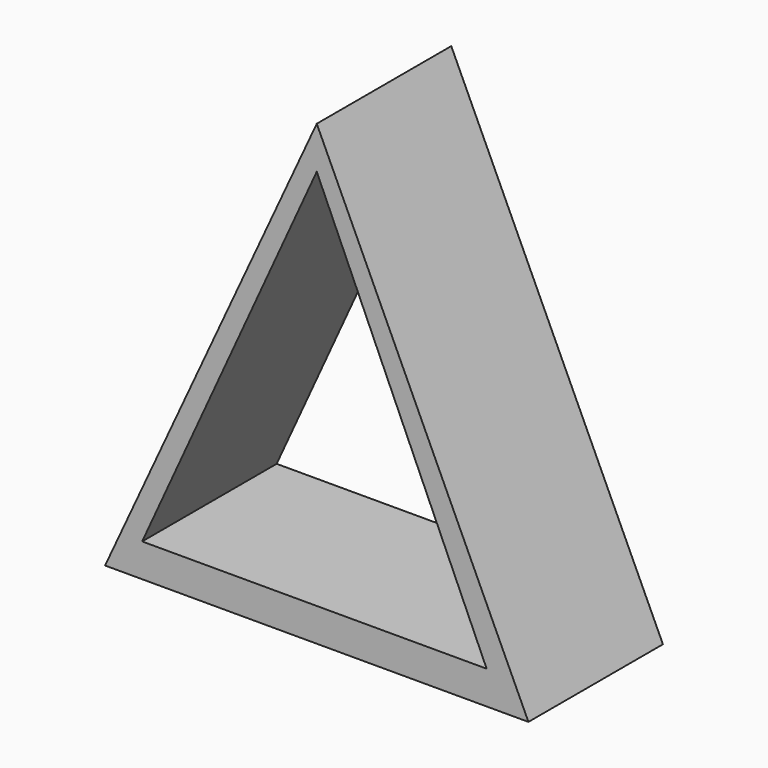
from build123d import *

# Parameters (mm, degrees)
F1_DEPTH = 25.4
F3_DEPTH = 50.8


with BuildPart() as f1:
    # F0 (on Front) → F1 (new body)
    with BuildSketch(Plane.XZ):
        Polygon((31.980053, -29.687206), (0, 39.477208), (-31.980053, -29.687206), align=None)
    extrude(amount=F1_DEPTH)

    # F2 (on Front) → F3 (cut)
    with BuildSketch(Plane.XZ):
        Polygon((25.663907, -24.663087), (0, 33.098578), (-26.37878, -24.663087), align=None)
    extrude(amount=F3_DEPTH, mode=Mode.SUBTRACT)


solid = f1.part
